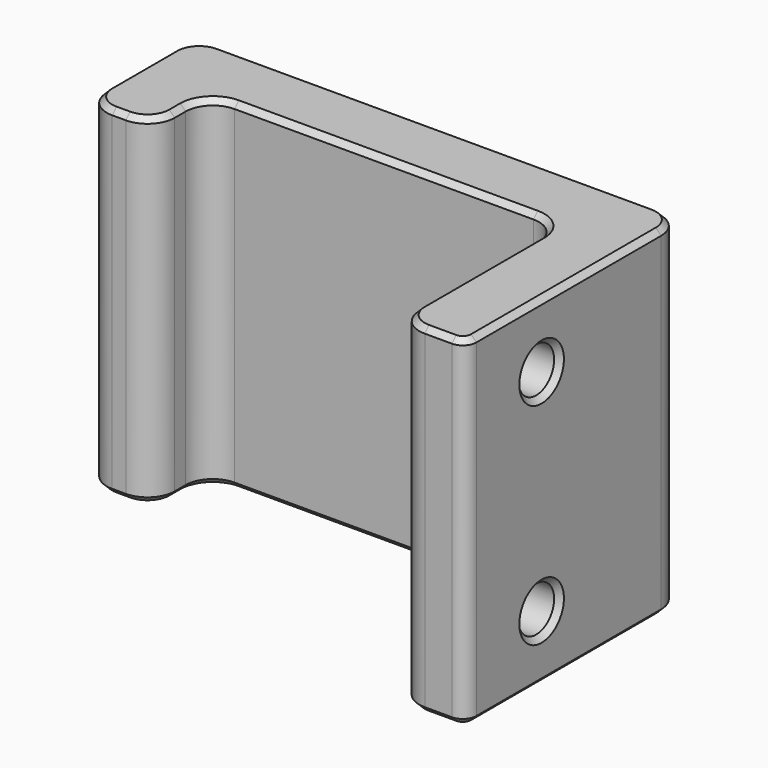
from build123d import *

# Parameters (mm, degrees)
PAD009_DEPTH       = 25
SKETCH036_R        = 1.65
POCKET025_DEPTH    = 36.001
FILLET009_R        = 2
FILLET010_R        = 1
CHAMFER011008_SIZE = 0.4


with BuildPart() as part:
    # Sketch035 → Pad009 (new body)
    with BuildSketch(Plane.XY):
        Polygon((0, 0), (0, 20), (-36, 20), (-36, 10), (-31, 10), (-31, 15), (-5, 15), (-5, 0), align=None)
    extrude(amount=PAD009_DEPTH)

    # Sketch036 (on Face1 of Pad009) → Pocket025 (cut, through all)
    with BuildSketch(Plane.YZ):
        with Locations((7, 4.75)):
            Circle(SKETCH036_R)
        with Locations((7, 20.25)):
            Circle(SKETCH036_R)
    extrude(amount=-POCKET025_DEPTH, mode=Mode.SUBTRACT)

    # Fillet009
    fillet009_edges = [part.edges().sort_by_distance(p)[0] for p in [
        (-5, 15, 12.5),
        (0, 20, 12.5),
        (-5, 0, 12.5),
        (-36, 20, 12.5),
        (-36, 10, 12.5),
        (-31, 10, 12.5),
        (-31, 15, 12.5),
    ]]
    fillet(fillet009_edges, radius=FILLET009_R)

    # Fillet010
    fillet010_edges = [part.edges().sort_by_distance(p)[0] for p in [
        (0, 0, 12.5),
    ]]
    fillet(fillet010_edges, radius=FILLET010_R)

    # Chamfer011008
    chamfer011008_edges = [part.edges().sort_by_distance(p)[0] for p in [
        (0, 9.5, 0),
        (-0.292893, 0.292893, 0),
        (-0.585786, 19.414214, 0),
        (-2, 0, 0),
        (-18, 20, 0),
        (-4.414214, 0.585786, 0),
        (-35.414214, 19.414214, 0),
        (-5, 7.5, 0),
        (-36, 15, 0),
        (-5.585786, 14.414214, 0),
        (-35.414214, 10.585786, 0),
        (-18, 15, 0),
        (-33.5, 10, 0),
        (-30.414214, 14.414214, 0),
        (-31.585786, 10.585786, 0),
        (-31, 12.5, 0),
        (0, 5.35, 20.25),
        (0, 5.35, 4.75),
        (-5, 5.35, 4.75),
        (-5, 5.35, 20.25),
        (0, 9.5, 25),
        (-0.292893, 0.292893, 25),
        (-0.585786, 19.414214, 25),
        (-2, 0, 25),
        (-18, 20, 25),
        (-4.414214, 0.585786, 25),
        (-35.414214, 19.414214, 25),
        (-5, 7.5, 25),
        (-36, 15, 25),
        (-5.585786, 14.414214, 25),
        (-35.414214, 10.585786, 25),
        (-18, 15, 25),
        (-33.5, 10, 25),
        (-30.414214, 14.414214, 25),
        (-31.585786, 10.585786, 25),
        (-31, 12.5, 25),
    ]]
    chamfer(chamfer011008_edges, length=CHAMFER011008_SIZE)


solid = part.part
